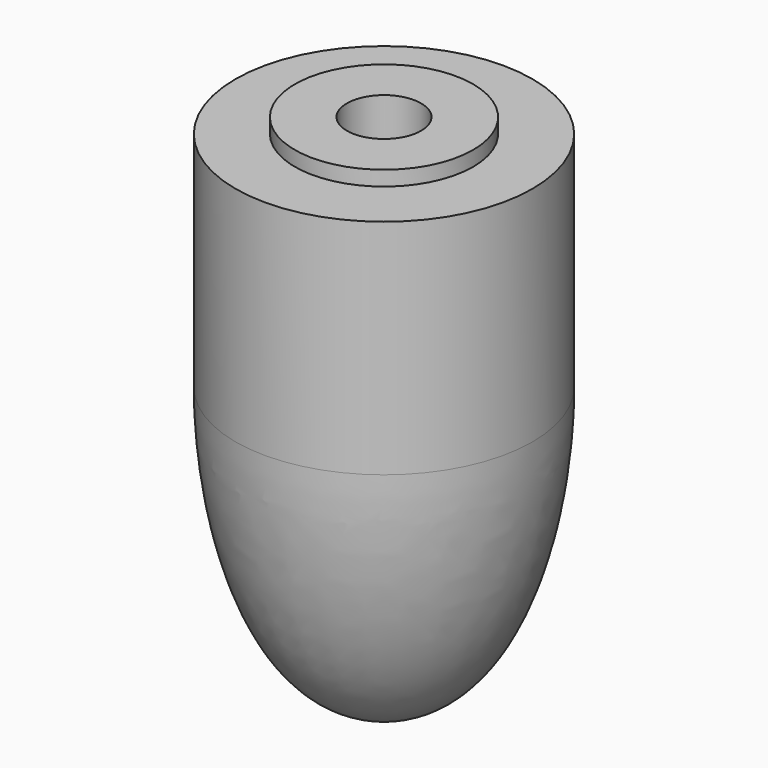
from build123d import *

# Parameters (mm, degrees)
F2_R     = 2.5
F3_DEPTH = 25
F5_ANGLE = 90


with BuildPart() as f1:
    # F0 (on Front) → F1 (revolve)
    with BuildSketch(Plane.XZ):
        with BuildLine():
            Line((-8.5, 0), (0, 0))
            Line((0, 0), (26.5, 0))
            add(Edge.make_bspline(
                [(7.5, 10), (14.95356, 10), (26.5, 7.45356), (26.5, 0)],
                knots=[0, 0, 0, 0, 21.470911, 21.470911, 21.470911, 21.470911], degree=3))
            Line((7.5, 10), (-7.5, 10))
            Line((-7.5, 10), (-7.5, 6))
            Line((-7.5, 6), (-8.5, 6))
            Line((-8.5, 6), (-8.5, 0))
        make_face()
    revolve(axis=Axis((13.25, 0, 0), (1, 0, 0)))

    # F2 (on face) → F3 (cut)
    with BuildSketch(Plane(origin=(-8.5, 0, 0), x_dir=(0, -1, 0), z_dir=(-1, 0, 0))):
        Circle(F2_R)
    extrude(amount=-F3_DEPTH, mode=Mode.SUBTRACT)


with BuildPart() as f1_1:
    # F5: moved
    add(f1.part.rotate(Axis((0, 12.53504, 0), (0, 1, 0)), F5_ANGLE))


solid = f1_1.part
